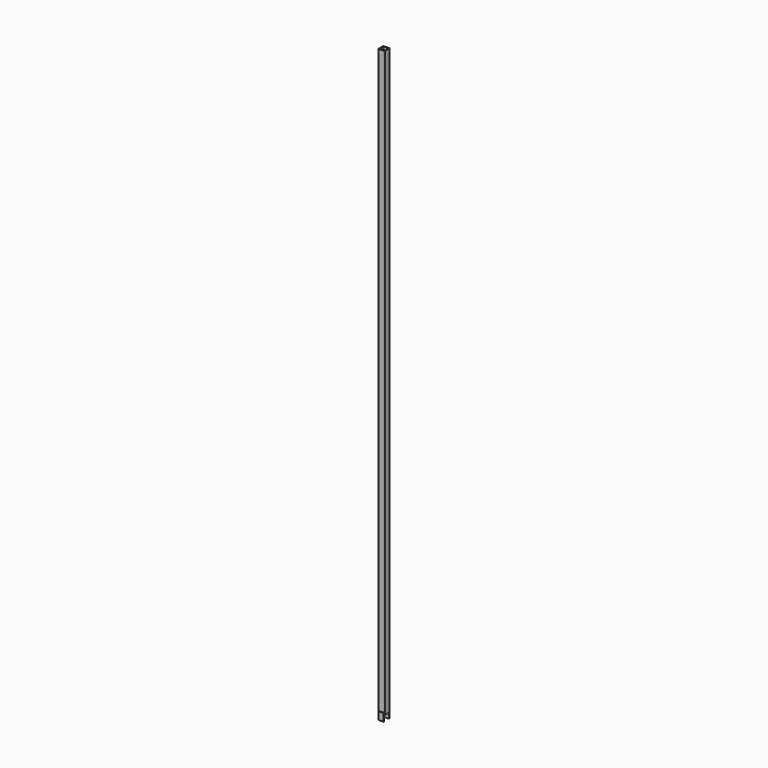
from build123d import *

# Parameters (mm, degrees)
F0_W     = 26.75
F0_H     = 26.75
F1_DEPTH = 3000
F2_W     = 26.75
F2_H     = 40
F3_DEPTH = 2.5


with BuildPart() as f1:
    # F0 (on Top) → F1 (new body)
    with BuildSketch(Plane.XY):
        with BuildLine():
            ThreePointArc((15.875, 13.375), (15.142766953, 15.142766953), (13.375, 15.875))
            Line((13.375, 15.875), (-13.375, 15.875))
            ThreePointArc((-13.375, 15.875), (-15.142766953, 15.142766953), (-15.875, 13.375))
            Line((-15.875, 13.375), (-15.875, -13.375))
            ThreePointArc((-15.875, -13.375), (-15.142766953, -15.142766953), (-13.375, -15.875))
            Line((-13.375, -15.875), (13.375, -15.875))
            ThreePointArc((13.375, -15.875), (15.142766953, -15.142766953), (15.875, -13.375))
            Line((15.875, -13.375), (15.875, 13.375))
        make_face()
        Rectangle(F0_W, F0_H, mode=Mode.SUBTRACT)
    extrude(amount=F1_DEPTH)

    # F2 (on face) → F3 (join)
    with BuildSketch(Plane.XZ.offset(15.875)):
        with Locations((0, -10)):
            Rectangle(F2_W, F2_H)
    extrude(amount=F3_DEPTH)

    # F4: F1 across plane


with BuildPart() as f1_1:
    add(f1.part)
    add(f1.part.mirror(Plane.XZ))


solid = f1_1.part
